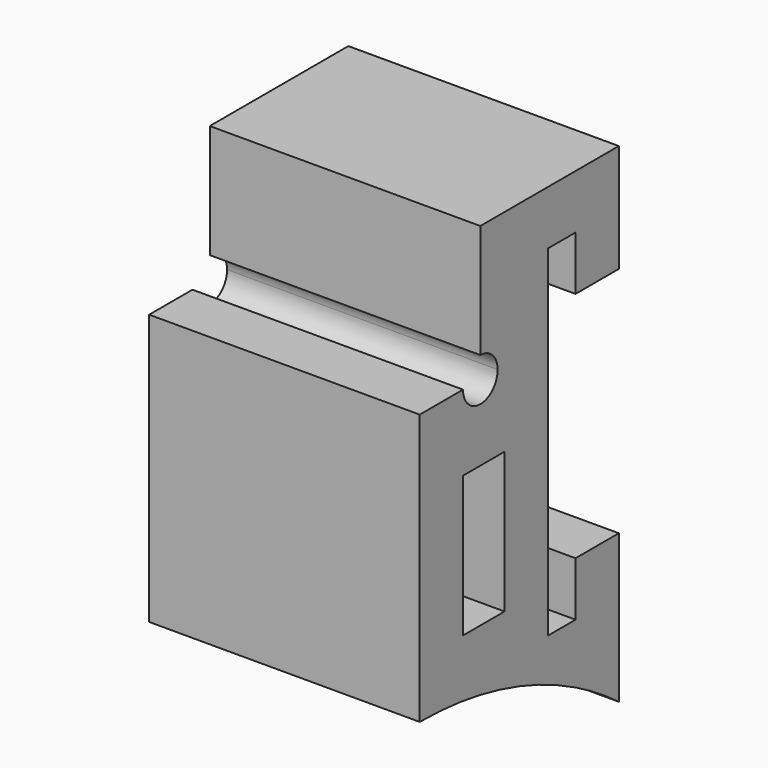
from build123d import *

# Parameters (mm, degrees)
F0_W     = 4.8
F0_H     = 13
F1_DEPTH = 25


with BuildPart() as f1:
    # F0 (on Right) → F1 (new body)
    with BuildSketch(Plane.YZ):
        with BuildLine():
            Line((0, 63.15), (0, 38.15))
            ThreePointArc((0, 38.15), (9.278612, 37.004457), (18, 33.636624))
            Line((18, 33.636624), (18, 39.15))
            Line((18, 39.15), (14.8, 39.15))
            Line((14.8, 39.15), (14.8, 70.65))
            Line((14.8, 70.65), (18, 70.65))
            Line((18, 70.65), (18, 65.65))
            Line((18, 65.65), (23, 65.65))
            Line((23, 65.65), (23, 75.65))
            Line((23, 75.65), (7, 75.65))
            Line((7, 75.65), (7, 65.15))
            ThreePointArc((7, 65.15), (8.414214, 64.564214), (9, 63.15))
            ThreePointArc((9, 63.15), (7, 61.15), (5, 63.15))
            Line((5, 63.15), (0, 63.15))
        make_face()
        with Locations((7.4, 49.65)):
            Rectangle(F0_W, F0_H, mode=Mode.SUBTRACT)
        with BuildLine():
            ThreePointArc((18, 33.636624), (20.562322, 32.134303), (23, 30.437189))
            Line((23, 30.437189), (23, 44.15))
            Line((23, 44.15), (18, 44.15))
            Line((18, 44.15), (18, 39.15))
            Line((18, 39.15), (18, 33.636624))
        make_face()
    extrude(amount=F1_DEPTH)


solid = f1.part
